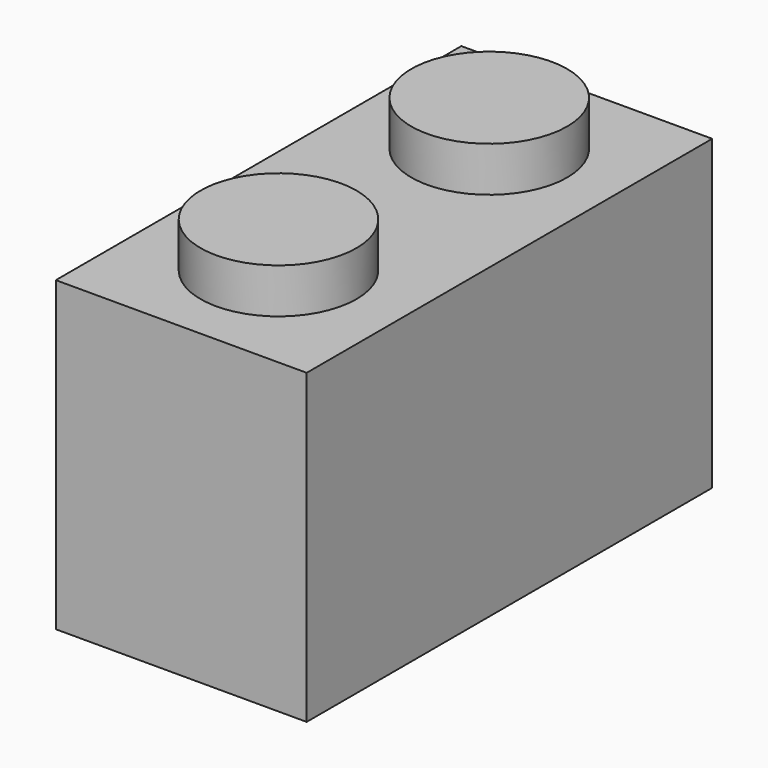
from build123d import *

# Parameters (mm, degrees)
F0_W     = 7.82
F0_H     = 15.8
F0_R     = 2.43
F1_DEPTH = 9.58
F2_DEPTH = 10.98
F4_DEPTH = 8.28


with BuildPart() as f1:
    # F0 (on Top) → F1 (new body)
    with BuildSketch(Plane.XY):
        Rectangle(F0_W, F0_H)
        with Locations((0, -4.11)):
            Circle(F0_R, mode=Mode.SUBTRACT)
        with Locations((0, 4.1)):
            Circle(F0_R, mode=Mode.SUBTRACT)
        with Locations((0, -4.11)):
            Circle(F0_R)
        with Locations((0, 4.1)):
            Circle(F0_R)
    extrude(amount=F1_DEPTH)

    # F0 (on Top) → F2 (join)
    with BuildSketch(Plane.XY):
        with Locations((0, -4.11)):
            Circle(F0_R)
        with Locations((0, 4.1)):
            Circle(F0_R)
    extrude(amount=F2_DEPTH)

    # F3 (on face) → F4 (cut)
    with BuildSketch(Plane(origin=(0, 0, 0), x_dir=(1, 0, 0), z_dir=(0, 0, -1))):
        with BuildLine():
            Line((-2.43, -0.317888), (-2.43, -6.22))
            Line((-2.43, -6.22), (2.43, -6.22))
            Line((2.43, -6.22), (2.43, -0.606731))
            Line((2.43, -0.606731), (1.088562, -0.606731))
            ThreePointArc((1.088562, -0.606731), (-0.155715, -1.236463), (-1.205005, -0.317888))
            Line((-1.205005, -0.317888), (-2.43, -0.317888))
        make_face()
        with BuildLine():
            Line((-2.43, 6.22), (-2.43, 0.742112))
            Line((-2.43, 0.742112), (-1.001179, 0.742112))
            ThreePointArc((-1.001179, 0.742112), (0.165026, 1.235255), (1.160877, 0.453269))
            Line((1.160877, 0.453269), (2.43, 0.453269))
            Line((2.43, 0.453269), (2.43, 6.22))
            Line((2.43, 6.22), (-2.43, 6.22))
        make_face()
    extrude(amount=-F4_DEPTH, mode=Mode.SUBTRACT)


solid = f1.part
